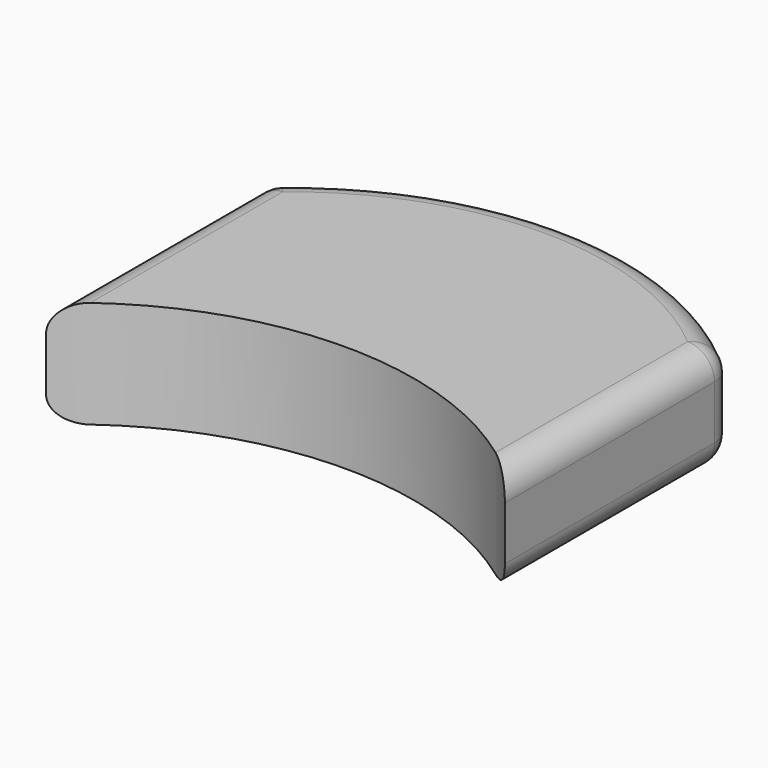
from build123d import *

# Parameters (mm, degrees)
F1_DEPTH = 203.2
F2_R     = 50.8


with BuildPart() as f1:
    # F0 (on Top) → F1 (new body)
    with BuildSketch(Plane.XY):
        with BuildLine():
            Line((-434.999892, 519.99896), (-434.999892, 0))
            ThreePointArc((-434.999892, 0), (0, 167.013967), (434.999892, 0))
            Line((434.999892, 0), (434.999892, 519.99896))
            ThreePointArc((434.999892, 519.99896), (0, 687.012927), (-434.999892, 519.99896))
        make_face()
    extrude(amount=F1_DEPTH)

    # F2
    f2_edges = [f1.edges().sort_by_distance(p)[0] for p in [
        (0, 687.012927, 203.2),
        (-434.999892, 519.99896, 101.6),
        (0, 687.012927, 0),
        (434.999892, 519.99896, 101.6),
        (434.999892, 259.99948, 0),
        (434.999892, 259.99948, 203.2),
        (-434.999892, 259.99948, 203.2),
        (-434.999892, 259.99948, 0),
    ]]
    fillet(f2_edges, radius=F2_R)


solid = f1.part
